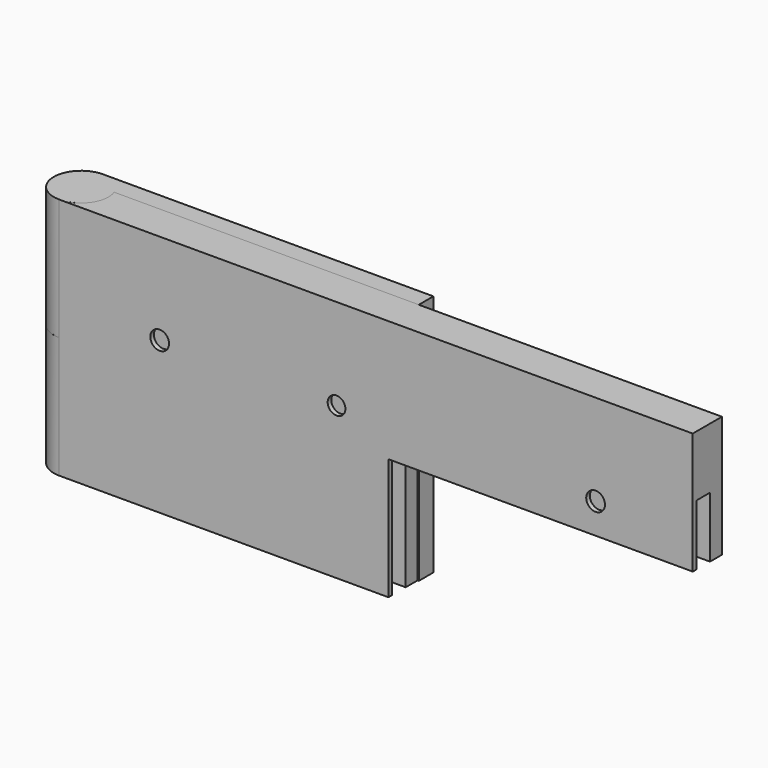
from build123d import *

# Parameters (mm, degrees)
PAD001_DEPTH    = 40
SKETCH002_R     = 4.5
POCKET_DEPTH    = 20
SKETCH003_R     = 2.507414
POCKET001_DEPTH = 15
SKETCH004_W     = 50.0781016871
SKETCH004_H     = 6
POCKET002_DEPTH = 20
SKETCH005_W     = 99.5143276871
SKETCH005_H     = 2.8
POCKET003_DEPTH = 30
SKETCH007_R     = 1.543073
SKETCH007_R_2   = 1.45762
POCKET005_DEPTH = 9.001
POCKET006_DEPTH = 2
PAD_DEPTH       = 40
SKETCH006_R     = 1.486591
SKETCH006_R_2   = 1.457401
SKETCH006_R_3   = 1.490716
SKETCH006_R_4   = 1.490718
POCKET004_DEPTH = 3.0000891794
CHAMFER_SIZE    = 1


with BuildPart() as obj1:
    # Sketch001 → Pad001 (new body)
    with BuildSketch(Plane.XY):
        with BuildLine():
            ThreePointArc((4.2426406871, 1.5), (-3.6742346142, 2.5980762114), (0, -4.5))
            Line((104.2426406871, -4.5), (0, -4.5))
            Line((104.2426406871, 1.5), (104.2426406871, -4.5))
            Line((4.2426406871, 1.5), (104.2426406871, 1.5))
        make_face()
    extrude(amount=-PAD001_DEPTH)

    # Sketch002 → Pocket (cut)
    with BuildSketch(Plane(origin=(0, 0, -40), x_dir=(1, 0, 0), z_dir=(0, 0, -1))):
        Circle(SKETCH002_R)
    extrude(amount=-POCKET_DEPTH, mode=Mode.SUBTRACT)

    # Sketch003 → Pocket001 (cut)
    with BuildSketch(Plane(origin=(0, 0, -20), x_dir=(1, 0, 0), z_dir=(0, 0, -1))):
        Circle(SKETCH003_R)
    extrude(amount=-POCKET001_DEPTH, mode=Mode.SUBTRACT)

    # Sketch004 → Pocket002 (cut)
    with BuildSketch(Plane.XY):
        with Locations((79.2035898436, -1.5)):
            Rectangle(SKETCH004_W, SKETCH004_H)
    extrude(amount=-POCKET002_DEPTH, mode=Mode.SUBTRACT)

    # Sketch005 → Pocket003 (cut)
    with BuildSketch(Plane.XY):
        with Locations((54.4854768436, -2.354658)):
            Rectangle(SKETCH005_W, SKETCH005_H)
    extrude(amount=-POCKET003_DEPTH, mode=Mode.SUBTRACT)


with BuildPart() as obj2:
    # Pocket005 base: copy of obj1
    add(obj1.part)

    # Sketch007 → Pocket005 (cut, through all)
    with BuildSketch(Plane.XZ.offset(4.5)):
        with Locations((88.258736, -25)):
            Circle(SKETCH007_R)
        with Locations((16.530338, -25)):
            Circle(SKETCH007_R)
        with Locations((45.627708, -25)):
            Circle(SKETCH007_R_2)
    extrude(amount=-POCKET005_DEPTH, mode=Mode.SUBTRACT)

    # Sketch008 → Pocket006 (cut)
    with BuildSketch(Plane(origin=(0, 1.5, 0), x_dir=(-1, 0, 0), z_dir=(0, 1, 0))):
        Polygon((-42.6922637743, -23.3886339549), (-45.555469817, -21.6521477066), (-48.4909140427, -23.2635137517), (-48.5631522257, -26.6113660451), (-45.699946183, -28.3478522934), (-42.7645019573, -26.7364862483), align=None)
        Polygon((-13.6555894593, -23.2826898472), (-16.5801979482, -21.6517396578), (-19.4549464889, -23.3690498107), (-19.4050865407, -26.7173101528), (-16.4804780518, -28.3482603422), (-13.6057295111, -26.6309501893), align=None)
        Polygon((-85.3305509675, -26.6245201596), (-85.3877677566, -23.2763774547), (-88.3159527891, -21.6518572951), (-91.1869210325, -23.3754798404), (-91.1297042434, -26.7236225453), (-88.2015192109, -28.3481427049), align=None)
    extrude(amount=-POCKET006_DEPTH, mode=Mode.SUBTRACT)


with BuildPart() as part_mirroring:
    # Part__Mirroring: instance of obj2
    add(obj2.part.mirror(Plane(origin=(0, 0, 0), x_dir=(0, 1, 0), z_dir=(0, 0, 1))))


with BuildPart() as obj3:
    # Sketch → Pad (new body)
    with BuildSketch(Plane.XY):
        with BuildLine():
            ThreePointArc((-0.0905348327, 4.4990891794), (-2.561379334, -3.6999102567), (4.2429626009, 1.4990891794))
            Line((54.3700859693, 1.4990891794), (4.2429626009, 1.4990891794))
            Line((54.3700859693, 4.4990891794), (54.3700859693, 1.4990891794))
            Line((-0.0905348327, 4.4990891794), (54.3700859693, 4.4990891794))
        make_face()
    extrude(amount=-PAD_DEPTH)

    # Cut: cut obj1
    add(obj1.part, mode=Mode.SUBTRACT)

    # Sketch006 → Pocket004 (cut, through all)
    with BuildSketch(Plane.XZ.offset(-1.5)):
        with Locations((15.5573463219, -7.972067)):
            Circle(SKETCH006_R)
        with Locations((41.9440455, -7.972067)):
            Circle(SKETCH006_R_2)
        with Locations((15.5573463219, -30.132898)):
            Circle(SKETCH006_R_3)
        with Locations((41.9440455, -30.132898)):
            Circle(SKETCH006_R_4)
    extrude(amount=-POCKET004_DEPTH, mode=Mode.SUBTRACT)

    # Chamfer
    chamfer_edges = [obj3.edges().sort_by_distance(p)[0] for p in [
        (14.070755, 1.5, -7.972067),
        (40.486645, 1.5, -7.972067),
        (40.453328, 1.5, -30.132898),
        (14.06663, 1.5, -30.132898),
    ]]
    chamfer(chamfer_edges, length=CHAMFER_SIZE)


with BuildPart() as part_mirroring001:
    # Part__Mirroring001: instance of obj3
    add(obj3.part.mirror(Plane(origin=(0, 0, 0), x_dir=(0, 1, 0), z_dir=(0, 0, 1))))


solid = Compound([part_mirroring.part, part_mirroring001.part])
